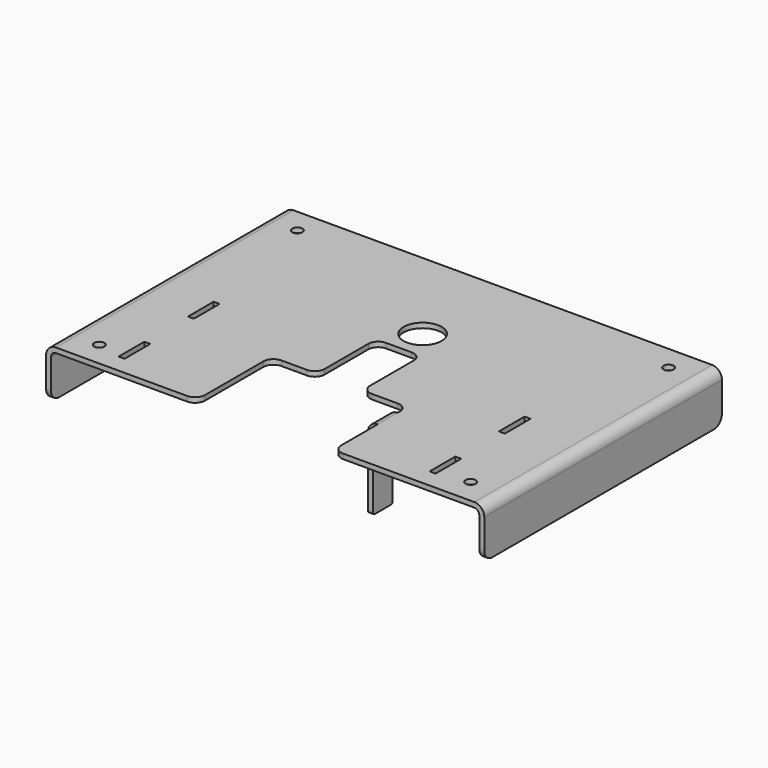
from build123d import *

# Parameters (mm, degrees)
SKETCH_R     = 2.05
SKETCH_R_2   = 7.7
SKETCH_W     = 2.4
SKETCH_H     = 13
PAD_DEPTH    = 2
FILLET_R     = 4
SKETCH001_W  = 120
SKETCH001_H  = 20
PAD001_DEPTH = 2
SKETCH002_W  = 120
SKETCH002_H  = 20
PAD002_DEPTH = 2
FILLET001_R  = 4
FILLET002_R  = 2
FILLET003_R  = 4
SKETCH003_W  = 10
SKETCH003_H  = 2
PAD003_DEPTH = 4
SKETCH004_W  = 10
SKETCH004_H  = 33
PAD004_DEPTH = 2
FILLET004_R  = 4
FILLET005_R  = 2
FILLET006_R  = 1


with BuildPart() as part:
    # Sketch → Pad (new body)
    with BuildSketch(Plane.XY):
        Polygon((-88.5, 60), (88.5, 60), (88.5, -60), (27.51, -60), (27.51, -22.5), (9.17, -22.5), (9.17, 7.5), (-9.16, 7.5), (-9.16, -22.5), (-27.5, -22.5), (-27.5, -60), (-88.5, -60), align=None)
        with Locations((-75, -50)):
            Circle(SKETCH_R, mode=Mode.SUBTRACT)
        with Locations((-75, 50)):
            Circle(SKETCH_R, mode=Mode.SUBTRACT)
        with Locations((75, 50)):
            Circle(SKETCH_R, mode=Mode.SUBTRACT)
        with Locations((75, -50)):
            Circle(SKETCH_R, mode=Mode.SUBTRACT)
        with Locations((0, 19.5)):
            Circle(SKETCH_R_2, mode=Mode.SUBTRACT)
        with Locations((-64, -46)):
            Rectangle(SKETCH_W, SKETCH_H, mode=Mode.SUBTRACT)
        with Locations((-64, -11)):
            Rectangle(SKETCH_W, SKETCH_H, mode=Mode.SUBTRACT)
        with Locations((61.6, -11)):
            Rectangle(SKETCH_W, SKETCH_H, mode=Mode.SUBTRACT)
        with Locations((61.6, -46)):
            Rectangle(SKETCH_W, SKETCH_H, mode=Mode.SUBTRACT)
    extrude(amount=PAD_DEPTH)

    # Fillet
    fillet_edges = [part.edges().sort_by_distance(p)[0] for p in [
        (27.51, -60, 1),
        (27.51, -22.5, 1),
        (9.17, -22.5, 1),
        (9.17, 7.5, 1),
        (-9.16, -22.5, 1),
        (-27.5, -60, 1),
        (-27.5, -22.5, 1),
        (-9.16, 7.5, 1),
    ]]
    fillet(fillet_edges, radius=FILLET_R)

    # Sketch001 → Pad001 (new body)
    with BuildSketch(Plane(origin=(-88.5, 0, 0), x_dir=(0, -1, 0), z_dir=(-1, 0, 0))):
        with Locations((0, -8)):
            Rectangle(SKETCH001_W, SKETCH001_H)
    extrude(amount=-PAD001_DEPTH)

    # Sketch002 → Pad002 (new body)
    with BuildSketch(Plane.YZ.offset(88.5)):
        with Locations((0, -8)):
            Rectangle(SKETCH002_W, SKETCH002_H)
    extrude(amount=-PAD002_DEPTH)

    # Fillet001
    fillet001_edges = [part.edges().sort_by_distance(p)[0] for p in [
        (88.5, 0, 2),
        (-88.5, 0, 2),
    ]]
    fillet(fillet001_edges, radius=FILLET001_R)

    # Fillet002
    fillet002_edges = [part.edges().sort_by_distance(p)[0] for p in [
        (-86.5, 0, 0),
        (86.5, 0, 0),
    ]]
    fillet(fillet002_edges, radius=FILLET002_R)

    # Fillet003
    fillet003_edges = [part.edges().sort_by_distance(p)[0] for p in [
        (87.5, -60, -18),
        (87.5, 60, -18),
        (-87.5, -60, -18),
        (-87.5, 60, -18),
    ]]
    fillet(fillet003_edges, radius=FILLET003_R)

    # Sketch003 → Pad003 (new body)
    with BuildSketch(Plane(origin=(27.51, 0, 0), x_dir=(0, -1, 0), z_dir=(-1, 0, 0))):
        with Locations((32.5, 1)):
            Rectangle(SKETCH003_W, SKETCH003_H)
    extrude(amount=PAD003_DEPTH)

    # Sketch004 → Pad004 (new body)
    with BuildSketch(Plane(origin=(23.51, 0, 0), x_dir=(0, -1, 0), z_dir=(-1, 0, 0))):
        with Locations((32.5, -14.5)):
            Rectangle(SKETCH004_W, SKETCH004_H)
    extrude(amount=-PAD004_DEPTH)

    # Fillet004
    fillet004_edges = [part.edges().sort_by_distance(p)[0] for p in [
        (23.51, -32.5, 2),
    ]]
    fillet(fillet004_edges, radius=FILLET004_R)

    # Fillet005
    fillet005_edges = [part.edges().sort_by_distance(p)[0] for p in [
        (25.51, -32.5, 0),
    ]]
    fillet(fillet005_edges, radius=FILLET005_R)

    # Fillet006
    fillet006_edges = [part.edges().sort_by_distance(p)[0] for p in [
        (24.51, -37.5, -31),
        (24.51, -27.5, -31),
    ]]
    fillet(fillet006_edges, radius=FILLET006_R)


solid = part.part
